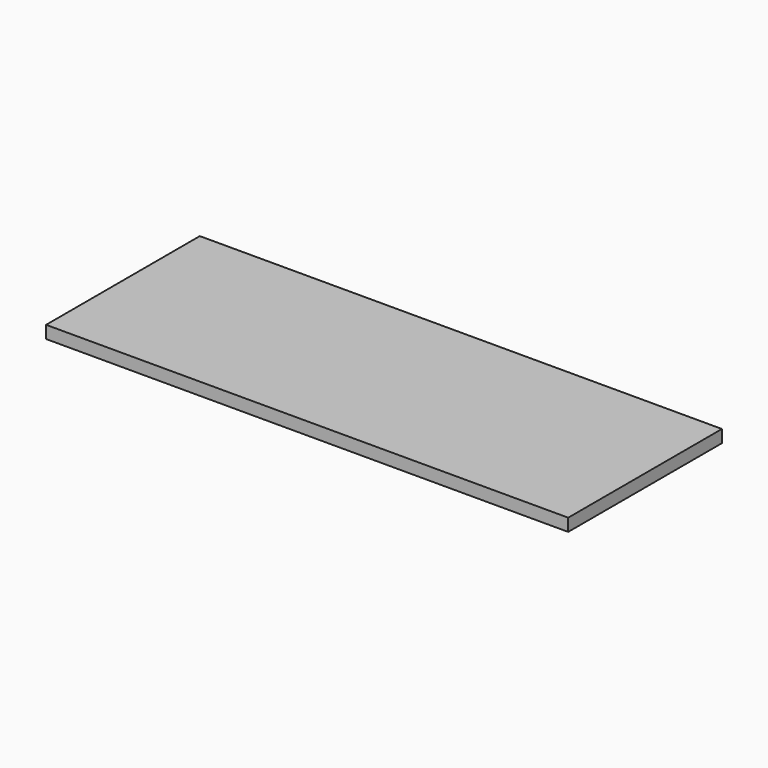
from build123d import *

# Parameters (mm, degrees)
F0_W     = 292.1
F0_H     = 19.05
F1_DEPTH = 196.85
F2_DEPTH = 396.875


with BuildPart() as f1:
    # F0 (on Right) → F1 (new body, symmetric)
    with BuildSketch(Plane.YZ):
        Rectangle(F0_W, F0_H)
    extrude(amount=F1_DEPTH, both=True)


with BuildPart() as f2:
    # F0 (on Right) → F2 (new body, symmetric)
    with BuildSketch(Plane.YZ):
        Rectangle(F0_W, F0_H)
    extrude(amount=F2_DEPTH, both=True)


solid = Compound([f1.part, f2.part])
